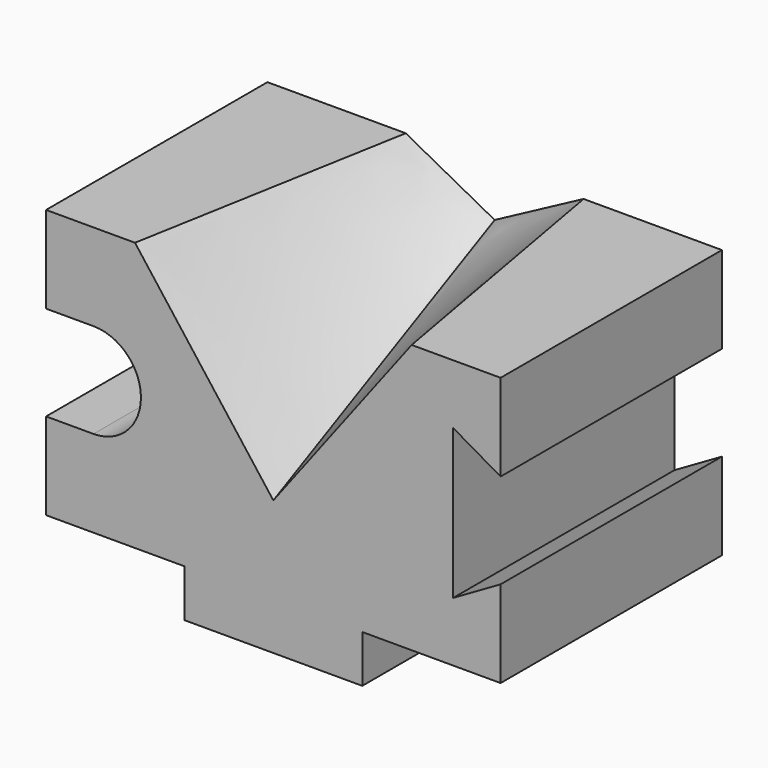
from build123d import *

# Parameters (mm, degrees)
F1_DEPTH = 70


with BuildPart() as f1:
    # F0 (on Front) → F1 (new body)
    with BuildSketch(Plane.XZ):
        with BuildLine():
            Line((0, 34), (0, 12))
            Line((0, 12), (35, 12))
            Line((35, 12), (35, 0))
            Line((35, 0), (80, 0))
            Line((80, 0), (80, 12))
            Line((80, 12), (115, 12))
            Line((115, 12), (115, 34))
            Line((115, 34), (103, 27.071797))
            Line((103, 27.071797), (103, 64.928203))
            Line((103, 64.928203), (115, 58))
            Line((115, 58), (115, 80))
            Line((115, 80), (0, 80))
            Line((0, 80), (0, 58))
            Line((0, 58), (12, 58))
            ThreePointArc((12, 58), (24, 46), (12, 34))
            Line((12, 34), (0, 34))
        make_face()
    extrude(amount=F1_DEPTH)

    # F3 (on face) → F4 section 0
    with BuildSketch(Plane.XZ.offset(70)):
        Polygon((92.5, 80), (22.5, 80), (57.5, 34), align=None)
    # F2 (on face) → F4 section 1
    with BuildSketch(Plane(origin=(0, 0, 0), x_dir=(-1, 0, 0), z_dir=(0, 1, 0))):
        Polygon((-80, 80), (-57.5, 68), (-35, 80), align=None)
    loft(mode=Mode.SUBTRACT)


solid = f1.part
